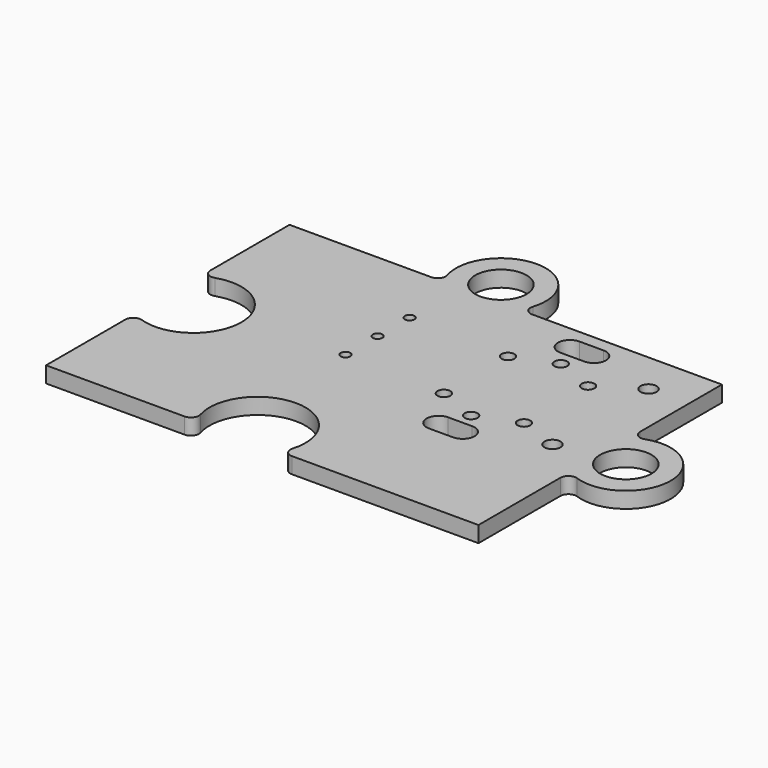
from build123d import *

# Parameters (mm, degrees)
CYLINDER010_R     = 0.5
CYLINDER010_DEPTH = 10
CYLINDER009_R     = 0.5
CYLINDER009_DEPTH = 10
CYLINDER008_R     = 0.3
CYLINDER008_DEPTH = 10
CYLINDER007_R     = 0.3
CYLINDER007_DEPTH = 10
CYLINDER006_R     = 0.3
CYLINDER006_DEPTH = 10
PAD002_DEPTH      = 5
PAD001_DEPTH      = 5
CYLINDER005_R     = 0.4
CYLINDER005_DEPTH = 10
CYLINDER004_R     = 0.4
CYLINDER004_DEPTH = 10
CYLINDER003_R     = 0.4
CYLINDER003_DEPTH = 10
CYLINDER002_R     = 0.4
CYLINDER002_DEPTH = 10
CYLINDER001_R     = 0.4
CYLINDER001_DEPTH = 10
CYLINDER_R        = 0.4
CYLINDER_DEPTH    = 10
SKETCH_R          = 1.6
PAD_DEPTH         = 1
FILLET001_R       = 0.5
FILLET005_R       = 0.5
FILLET004_R       = 0.5
FILLET003_R       = 0.5
FILLET002_R       = 0.5
FILLET_R          = 0.5


with BuildPart() as cilindro012:
    # Cylinder010 → Cylinder010 (new body)
    with BuildSketch(Plane(origin=(11, -0.6, -2), x_dir=(1, 0, 0), z_dir=(0, 0, 1))):
        Circle(CYLINDER010_R)
    extrude(amount=CYLINDER010_DEPTH)


with BuildPart() as cilindro011:
    # Cylinder009 → Cylinder009 (new body)
    with BuildSketch(Plane(origin=(11, 6.9, -2), x_dir=(1, 0, 0), z_dir=(0, 0, 1))):
        Circle(CYLINDER009_R)
    extrude(amount=CYLINDER009_DEPTH)


with BuildPart() as cilindro010:
    # Cylinder008 → Cylinder008 (new body)
    with BuildSketch(Plane(origin=(-2.8, 0.5, -2), x_dir=(1, 0, 0), z_dir=(0, 0, 1))):
        Circle(CYLINDER008_R)
    extrude(amount=CYLINDER008_DEPTH)


with BuildPart() as cilindro009:
    # Cylinder007 → Cylinder007 (new body)
    with BuildSketch(Plane(origin=(-2.8, 3, -2), x_dir=(1, 0, 0), z_dir=(0, 0, 1))):
        Circle(CYLINDER007_R)
    extrude(amount=CYLINDER007_DEPTH)


with BuildPart() as cilindro008:
    # Cylinder006 → Cylinder006 (new body)
    with BuildSketch(Plane(origin=(-2.8, 5.5, -2), x_dir=(1, 0, 0), z_dir=(0, 0, 1))):
        Circle(CYLINDER006_R)
    extrude(amount=CYLINDER006_DEPTH)


with BuildPart() as pad002:
    # Sketch002 → Pad002 (new body)
    with BuildSketch(Plane(origin=(0, -9, 0), x_dir=(1, 0, 0), z_dir=(0, 0, 1))):
        with BuildLine():
            ThreePointArc((5.24484, 7.456211), (4.49484, 6.706211), (5.24484, 5.956211))
            Line((5.24484, 5.956211), (6.74484, 5.956211))
            ThreePointArc((6.74484, 5.956211), (7.49484, 6.706211), (6.74484, 7.456211))
            Line((5.24484, 7.456211), (6.74484, 7.456211))
        make_face()
    extrude(amount=PAD002_DEPTH)


with BuildPart() as pad001:
    # Sketch001 → Pad001 (new body)
    with BuildSketch(Plane(origin=(0, 1.25, 0), x_dir=(1, 0, 0), z_dir=(0, 0, 1))):
        with BuildLine():
            ThreePointArc((5.24484, 7.456211), (4.49484, 6.706211), (5.24484, 5.956211))
            Line((5.24484, 5.956211), (6.74484, 5.956211))
            ThreePointArc((6.74484, 5.956211), (7.49484, 6.706211), (6.74484, 7.456211))
            Line((5.24484, 7.456211), (6.74484, 7.456211))
        make_face()
    extrude(amount=PAD001_DEPTH)


with BuildPart() as cilindro007:
    # Cylinder005 → Cylinder005 (new body)
    with BuildSketch(Plane(origin=(6, 6.3, -2), x_dir=(1, 0, 0), z_dir=(0, 0, 1))):
        Circle(CYLINDER005_R)
    extrude(amount=CYLINDER005_DEPTH)


with BuildPart() as cilindro006:
    # Cylinder004 → Cylinder004 (new body)
    with BuildSketch(Plane(origin=(6, -0.7, -2), x_dir=(1, 0, 0), z_dir=(0, 0, 1))):
        Circle(CYLINDER004_R)
    extrude(amount=CYLINDER004_DEPTH)


with BuildPart() as cilindro005:
    # Cylinder003 → Cylinder003 (new body)
    with BuildSketch(Plane(origin=(8.5, 5.3, -2), x_dir=(1, 0, 0), z_dir=(0, 0, 1))):
        Circle(CYLINDER003_R)
    extrude(amount=CYLINDER003_DEPTH)


with BuildPart() as cilindro004:
    # Cylinder002 → Cylinder002 (new body)
    with BuildSketch(Plane(origin=(3.5, 5.3, -2), x_dir=(1, 0, 0), z_dir=(0, 0, 1))):
        Circle(CYLINDER002_R)
    extrude(amount=CYLINDER002_DEPTH)


with BuildPart() as cilindro003:
    # Cylinder001 → Cylinder001 (new body)
    with BuildSketch(Plane(origin=(8.5, 0.3, -2), x_dir=(1, 0, 0), z_dir=(0, 0, 1))):
        Circle(CYLINDER001_R)
    extrude(amount=CYLINDER001_DEPTH)


with BuildPart() as cilindro002:
    # Cylinder → Cylinder (new body)
    with BuildSketch(Plane(origin=(3.5, 0.3, -2), x_dir=(1, 0, 0), z_dir=(0, 0, 1))):
        Circle(CYLINDER_R)
    extrude(amount=CYLINDER_DEPTH)


with BuildPart() as baseled:
    # Sketch → Pad (new body)
    with BuildSketch(Plane.XY):
        with BuildLine():
            Line((-13.5, 9.5), (-3.864318, 9.5))
            ThreePointArc((0.864318, 9.5), (-1.5, 13.8), (-3.864318, 9.5))
            Line((0.864318, 9.5), (13.5, 9.5))
            Line((13.5, 9.5), (13.5, 2.297825))
            ThreePointArc((13.5, -2.297825), (17.9, 0), (13.5, 2.297825))
            Line((13.5, -2.297825), (13.5, -9.5))
            Line((13.5, -9.5), (1.098076, -9.5))
            ThreePointArc((1.098076, -9.5), (-1.5, -5), (-4.098076, -9.5))
            Line((-4.098076, -9.5), (-13.5, -9.5))
            Line((-13.5, -9.5), (-13.5, -2.537716))
            ThreePointArc((-13.5, -2.537716), (-8.9, 0), (-13.5, 2.537716))
            Line((-13.5, 2.537716), (-13.5, 9.5))
        make_face()
        with Locations((-1.5, 11)):
            Circle(SKETCH_R, mode=Mode.SUBTRACT)
        with Locations((15.1, 0)):
            Circle(SKETCH_R, mode=Mode.SUBTRACT)
    extrude(amount=PAD_DEPTH)

    # Fillet001
    fillet001_edges = [baseled.edges().sort_by_distance(p)[0] for p in [
        (-3.864318, 9.5, 0.5),
    ]]
    fillet(fillet001_edges, radius=FILLET001_R)

    # Fillet005
    fillet005_edges = [baseled.edges().sort_by_distance(p)[0] for p in [
        (0.864318, 9.5, 0.5),
    ]]
    fillet(fillet005_edges, radius=FILLET005_R)

    # Fillet004
    fillet004_edges = [baseled.edges().sort_by_distance(p)[0] for p in [
        (13.5, 2.297825, 0.5),
    ]]
    fillet(fillet004_edges, radius=FILLET004_R)

    # Fillet003
    fillet003_edges = [baseled.edges().sort_by_distance(p)[0] for p in [
        (13.5, -2.297825, 0.5),
    ]]
    fillet(fillet003_edges, radius=FILLET003_R)

    # Fillet002
    fillet002_edges = [baseled.edges().sort_by_distance(p)[0] for p in [
        (-4.098076, -9.5, 0.5),
    ]]
    fillet(fillet002_edges, radius=FILLET002_R)

    # Fillet
    fillet_edges = [baseled.edges().sort_by_distance(p)[0] for p in [
        (1.098076, -9.5, 0.5),
        (-13.5, -2.537716, 0.5),
        (-13.5, 2.537716, 0.5),
    ]]
    fillet(fillet_edges, radius=FILLET_R)

    # Cut002: cut Cilindro002
    add(cilindro002.part, mode=Mode.SUBTRACT)

    # Cut003: cut Cilindro003
    add(cilindro003.part, mode=Mode.SUBTRACT)

    # Cut004: cut Cilindro004
    add(cilindro004.part, mode=Mode.SUBTRACT)

    # Cut005: cut Cilindro005
    add(cilindro005.part, mode=Mode.SUBTRACT)

    # Cut006: cut Cilindro006
    add(cilindro006.part, mode=Mode.SUBTRACT)

    # Cut007: cut Cilindro007
    add(cilindro007.part, mode=Mode.SUBTRACT)

    # Cut008: cut Pad001
    add(pad001.part, mode=Mode.SUBTRACT)

    # Cut009: cut Pad002
    add(pad002.part, mode=Mode.SUBTRACT)

    # Cut010: cut Cilindro008
    add(cilindro008.part, mode=Mode.SUBTRACT)

    # Cut011: cut Cilindro009
    add(cilindro009.part, mode=Mode.SUBTRACT)

    # Cut001: cut Cilindro010
    add(cilindro010.part, mode=Mode.SUBTRACT)

    # Cut012: cut Cilindro011
    add(cilindro011.part, mode=Mode.SUBTRACT)

    # Cut: cut Cilindro012
    add(cilindro012.part, mode=Mode.SUBTRACT)


solid = baseled.part
